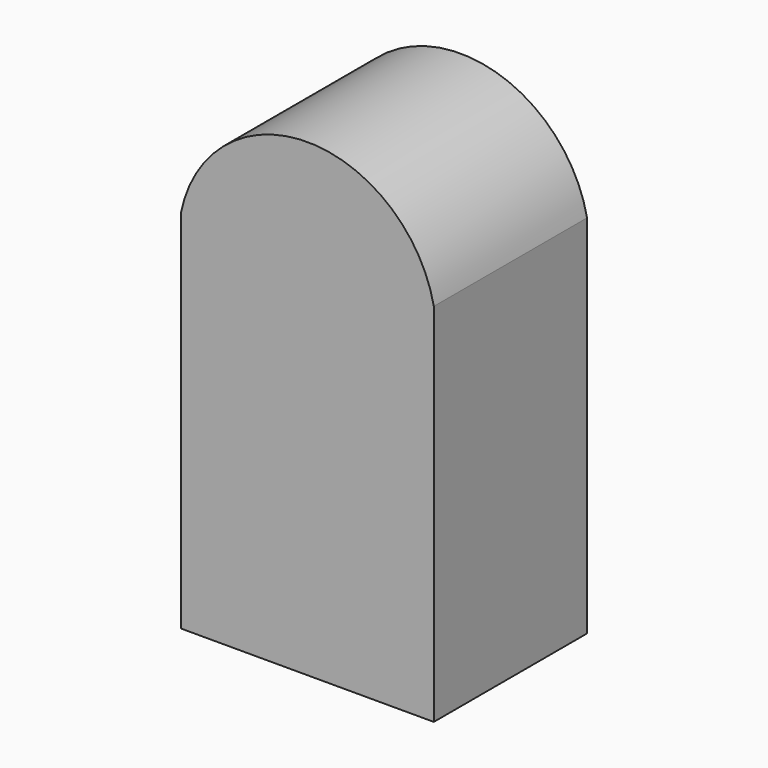
from build123d import *

# Parameters (mm, degrees)
F0_W     = 67.056002
F0_H     = 97.027998
F1_DEPTH = 50.8


with BuildPart() as f1:
    # F0 (on Front) → F1 (new body)
    with BuildSketch(Plane.XZ):
        with BuildLine():
            ThreePointArc((21.082001, 44.955354), (-12.446, 72.409999), (-45.974001, 44.955354))
            Line((-45.974001, 44.955354), (21.082001, 44.955354))
        make_face()
        with Locations((-12.446, -3.558645)):
            Rectangle(F0_W, F0_H)
    extrude(amount=F1_DEPTH)


solid = f1.part
